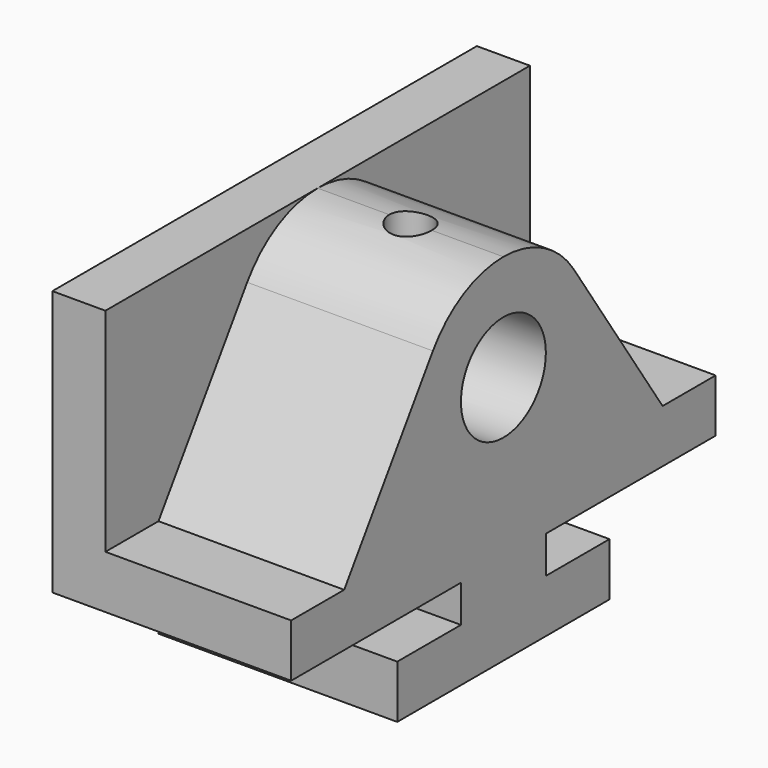
from build123d import *

# Parameters (mm, degrees)
F0_R     = 12.7
F1_DEPTH = 57.15
F2_DEPTH = 44.45
F3_DEPTH = 57.15
F4_R     = 5.08
F5_DEPTH = 85.09


with BuildPart() as f1:
    # F0 (on Right) → F1 (new body)
    with BuildSketch(Plane.YZ):
        with BuildLine():
            Line((127, 85.09), (63.5, 85.09))
            ThreePointArc((63.5, 85.09), (75.452941, 82.101765), (84.593426, 73.840173))
            Line((84.593426, 73.840173), (111.125, 34.29))
            Line((111.125, 34.29), (127, 34.29))
            Line((127, 34.29), (127, 85.09))
        make_face()
        with BuildLine():
            Line((31.75, 12.7), (31.75, 0))
            Line((31.75, 0), (63.5, 0))
            Line((63.5, 0), (95.25, 0))
            Line((95.25, 0), (95.25, 12.7))
            Line((95.25, 12.7), (76.2, 12.7))
            Line((76.2, 12.7), (76.2, 21.59))
            Line((76.2, 21.59), (127, 21.59))
            Line((127, 21.59), (127, 34.29))
            Line((127, 34.29), (111.125, 34.29))
            Line((111.125, 34.29), (84.593426, 73.840173))
            ThreePointArc((84.593426, 73.840173), (75.452941, 82.101765), (63.5, 85.09))
            ThreePointArc((63.5, 85.09), (51.547059, 82.101765), (42.406574, 73.840173))
            Line((42.406574, 73.840173), (15.875, 34.29))
            Line((15.875, 34.29), (0, 34.29))
            Line((0, 34.29), (0, 21.59))
            Line((0, 21.59), (50.8, 21.59))
            Line((50.8, 21.59), (50.8, 12.7))
            Line((50.8, 12.7), (31.75, 12.7))
        make_face()
        with Locations((63.5, 59.69)):
            Circle(F0_R, mode=Mode.SUBTRACT)
        with BuildLine():
            Line((0, 85.09), (0, 34.29))
            Line((0, 34.29), (15.875, 34.29))
            Line((15.875, 34.29), (42.406574, 73.840173))
            ThreePointArc((42.406574, 73.840173), (51.547059, 82.101765), (63.5, 85.09))
            Line((63.5, 85.09), (0, 85.09))
        make_face()
    extrude(amount=-F1_DEPTH)

    # F0 (on Right) → F2 (cut)
    with BuildSketch(Plane.YZ):
        with BuildLine():
            Line((0, 85.09), (0, 34.29))
            Line((0, 34.29), (15.875, 34.29))
            Line((15.875, 34.29), (42.406574, 73.840173))
            ThreePointArc((42.406574, 73.840173), (51.547059, 82.101765), (63.5, 85.09))
            Line((63.5, 85.09), (0, 85.09))
        make_face()
        with BuildLine():
            Line((127, 85.09), (63.5, 85.09))
            ThreePointArc((63.5, 85.09), (75.452941, 82.101765), (84.593426, 73.840173))
            Line((84.593426, 73.840173), (111.125, 34.29))
            Line((111.125, 34.29), (127, 34.29))
            Line((127, 34.29), (127, 85.09))
        make_face()
    extrude(amount=-F2_DEPTH, mode=Mode.SUBTRACT)

    # F0 (on Right) → F3 (cut)
    with BuildSketch(Plane.YZ):
        Polygon((0, 21.59), (0, 0), (31.75, 0), (31.75, 12.7), (50.8, 12.7), (50.8, 21.59), align=None)
        Polygon((95.25, 12.7), (95.25, 0), (127, 0), (127, 21.59), (76.2, 21.59), (76.2, 12.7), align=None)
    extrude(amount=-F3_DEPTH, mode=Mode.SUBTRACT)

    # F4 (on face) → F5 (cut)
    with BuildSketch(Plane.XY.offset(85.09)):
        with Locations((-22.225, 63.5)):
            Circle(F4_R)
    extrude(amount=-F5_DEPTH, mode=Mode.SUBTRACT)


solid = f1.part
